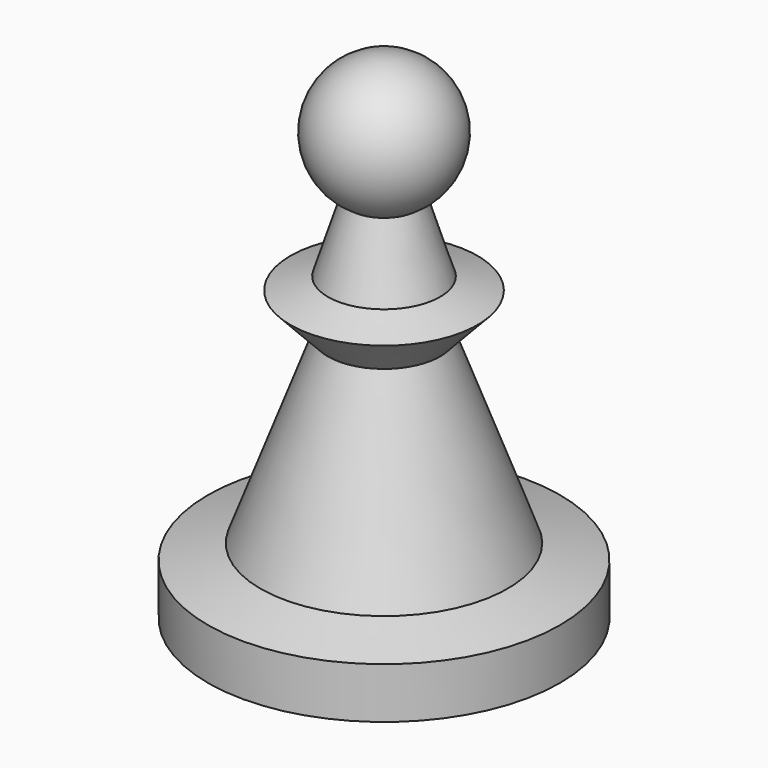
from build123d import *


with BuildPart() as f1:
    # F0 (on Front) → F1 (revolve)
    with BuildSketch(Plane.XZ):
        with BuildLine():
            Line((0, 0), (0, 30.900414))
            ThreePointArc((0, 30.900414), (-4.044649, 27.814633), (-2.136981, 23.098488))
            Line((-2.136981, 23.098488), (-3.504993, 18.786106))
            Line((-3.504993, 18.786106), (-5.846053, 18.005753))
            Line((-5.846053, 18.005753), (-3.504993, 15.508622))
            Line((-3.504993, 15.508622), (-7.718901, 4.115463))
            Line((-7.718901, 4.115463), (-10.996385, 3.179039))
            Line((-10.996385, 3.179039), (-10.996385, 0))
            Line((-10.996385, 0), (0, 0))
        make_face()
    revolve(axis=Axis((0, 0, 15.450207), (0, 0, 1)))


solid = f1.part
